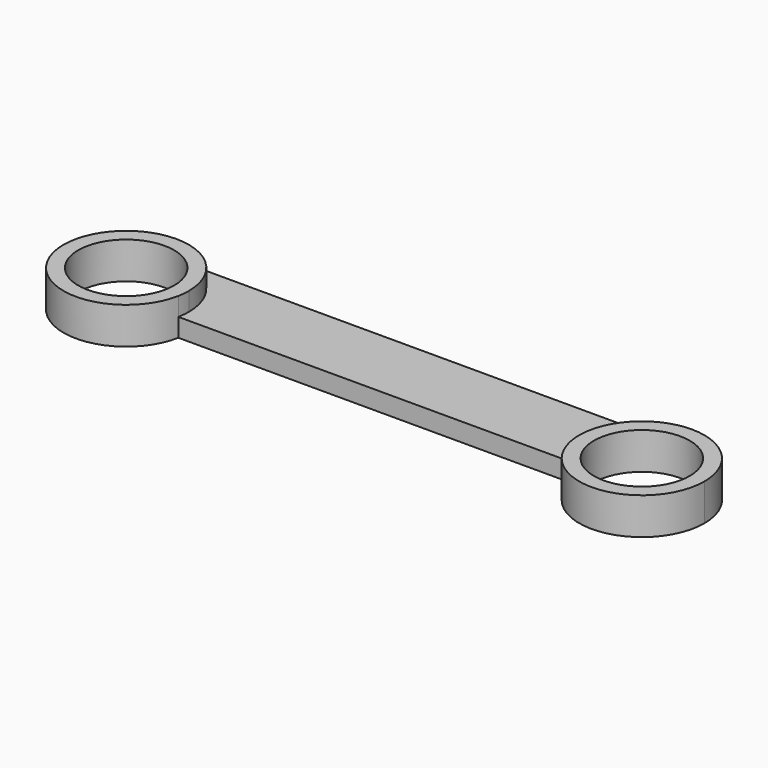
from build123d import *

# Parameters (mm, degrees)
F1_DEPTH = 2.5
F0_R     = 6.5
F2_DEPTH = 5


with BuildPart() as f1:
    # F0 (on Top) → F1 (new body)
    with BuildSketch(Plane.XY):
        with BuildLine():
            ThreePointArc((-29.64832, 11.779182), (-23.637873, 9.289611), (-21.148259, 3.279182))
            ThreePointArc((-21.148259, 3.279182), (-21.185854, 2.480628), (-21.298304, 1.689138))
            Line((-21.298304, 1.689138), (31.998499, 1.689138))
            ThreePointArc((31.998499, 1.689138), (33.799692, 8.698623), (40.3483, 11.77968))
            Line((40.3483, 11.77968), (-29.64832, 11.779182))
        make_face()
    extrude(amount=F1_DEPTH)

    # F0 (on Top) → F2 (join)
    with BuildSketch(Plane.XY):
        with BuildLine():
            ThreePointArc((-21.298304, 1.689138), (-21.185854, 2.480628), (-21.148259, 3.279182))
            ThreePointArc((-21.148259, 3.279182), (-23.637873, 9.289611), (-29.64832, 11.779182))
            ThreePointArc((-29.64832, 11.779182), (-36.196728, -2.140003), (-21.298304, 1.689138))
        make_face()
        with Locations((-29.648259, 3.279182)):
            Circle(F0_R, mode=Mode.SUBTRACT)
        with BuildLine():
            ThreePointArc((48.84836, 3.27968), (46.358747, 9.290109), (40.3483, 11.77968))
            ThreePointArc((40.3483, 11.77968), (33.799692, 8.698623), (31.998499, 1.689138))
            ThreePointArc((31.998499, 1.689138), (41.147167, -5.182702), (48.84836, 3.27968))
        make_face()
        with Locations((40.34836, 3.27968)):
            Circle(F0_R, mode=Mode.SUBTRACT)
    extrude(amount=F2_DEPTH)


solid = f1.part
